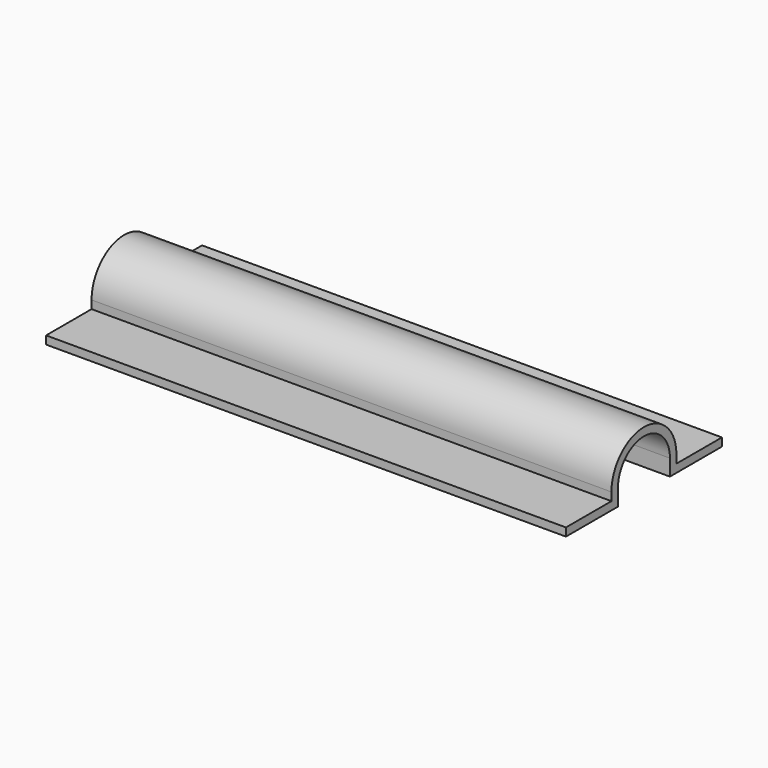
from build123d import *

# Parameters (mm, degrees)
F1_DEPTH = 50.8


with BuildPart() as f1:
    # F0 (on Right) → F1 (new body)
    with BuildSketch(Plane.YZ):
        with BuildLine():
            Line((-8.452803, 0), (-2.102803, 0))
            Line((-2.102803, 0), (-2.102803, 1.5875))
            ThreePointArc((-2.102803, 1.5875), (1.072197, 4.7625), (4.247197, 1.5875))
            Line((4.247197, 1.5875), (4.247197, 0))
            Line((4.247197, 0), (10.597197, 0))
            Line((10.597197, 0), (10.597197, 0.79375))
            Line((10.597197, 0.79375), (5.040947, 0.79375))
            Line((5.040947, 0.79375), (5.040947, 1.5875))
            ThreePointArc((5.040947, 1.5875), (1.072197, 5.55625), (-2.896553, 1.5875))
            Line((-2.896553, 1.5875), (-2.896553, 0.79375))
            Line((-2.896553, 0.79375), (-8.452803, 0.79375))
            Line((-8.452803, 0.79375), (-8.452803, 0))
        make_face()
    extrude(amount=F1_DEPTH)


solid = f1.part
